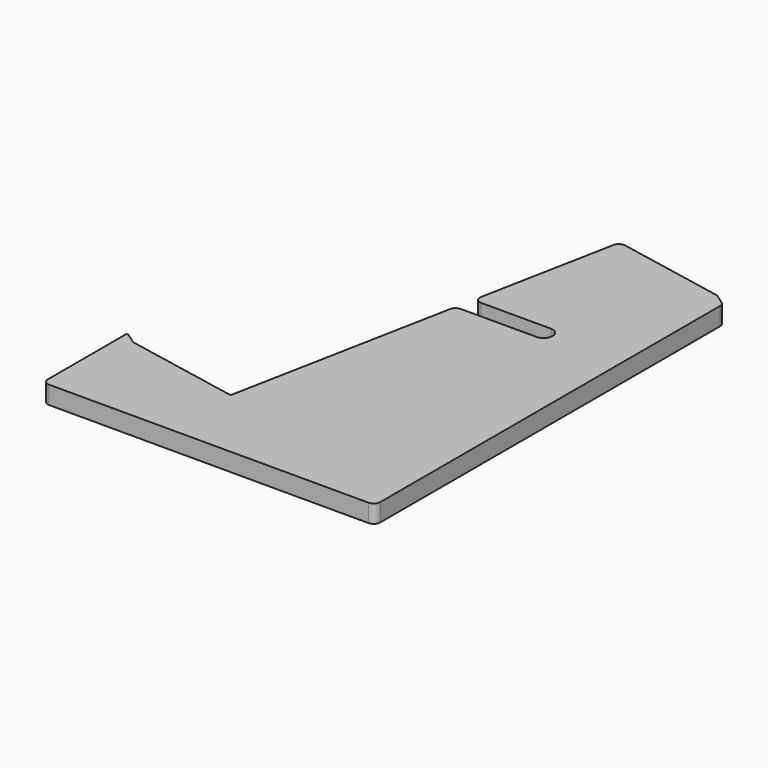
from build123d import *

# Parameters (mm, degrees)
F1_DEPTH = 17.4625


with BuildPart() as f1:
    # F0 (on Top) → F1 (new body)
    with BuildSketch(Plane.XY):
        with BuildLine():
            ThreePointArc((150.725491, 213.266399), (159.456741, 204.535149), (150.725491, 195.803899))
            Line((150.725491, 195.803899), (77.145754, 195.803899))
            ThreePointArc((77.145754, 195.803899), (73.106658, 194.353715), (70.912422, 190.665536))
            Line((70.912422, 190.665536), (29.140428, -24.232742))
            Line((29.140428, -24.232742), (-81.726916, -2.682314))
            ThreePointArc((-81.726916, -2.682314), (-83.003333, -2.291248), (-84.169783, -1.641967))
            Line((-84.169783, -1.641967), (-93.525323, 4.941889))
            ThreePointArc((-93.525323, 4.941889), (-94.841312, 5.030488), (-95.526224, 3.903292))
            Line((-95.526224, 3.903292), (-95.526224, -90.5315))
            ThreePointArc((-95.526224, -90.5315), (-93.666352, -95.021628), (-89.176224, -96.8815))
            Line((-89.176224, -96.8815), (221.489891, -96.8815))
            ThreePointArc((221.489891, -96.8815), (225.980019, -95.021628), (227.839891, -90.5315))
            Line((227.839891, -90.5315), (227.839891, 322.754246))
            ThreePointArc((227.839891, 322.754246), (227.125873, 325.679685), (225.144395, 327.947231))
            Line((225.144395, 327.947231), (216.48345, 334.042273))
            ThreePointArc((216.48345, 334.042273), (215.316999, 334.691555), (214.040582, 335.08262))
            Line((214.040582, 335.08262), (109.406571, 355.421412))
            ThreePointArc((109.406571, 355.421412), (104.644059, 354.452468), (101.961601, 350.399716))
            Line((101.961601, 350.399716), (76.775418, 220.828036))
            ThreePointArc((76.775418, 220.828036), (78.108934, 215.577302), (83.008751, 213.266399))
            Line((83.008751, 213.266399), (150.725491, 213.266399))
        make_face()
    extrude(amount=F1_DEPTH)


with BuildPart() as f2_1:
    # F2: copy of F1
    add(f1.part)


solid = Compound([f1.part, f2_1.part])
